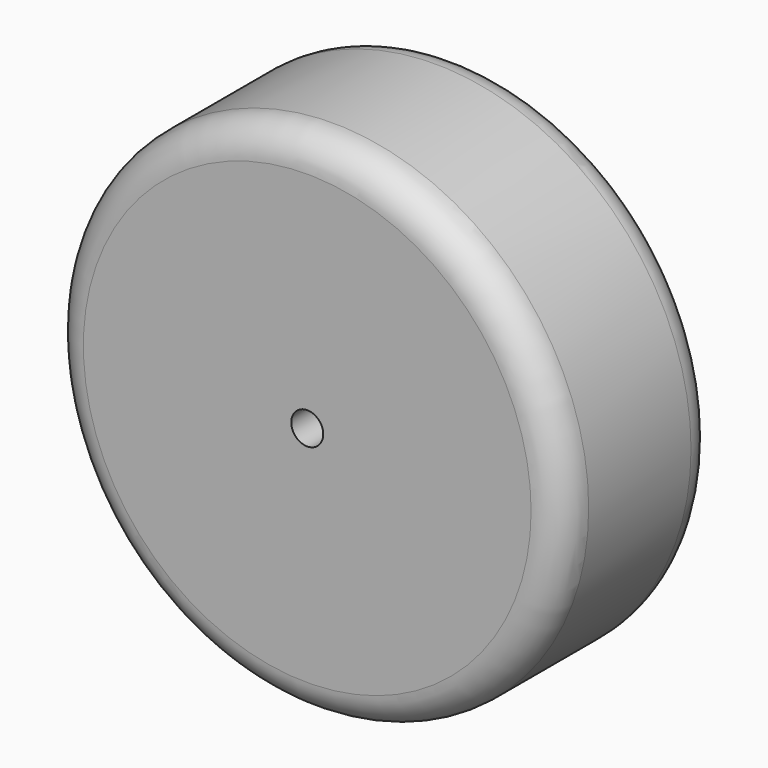
from build123d import *

# Parameters (mm, degrees)
F0_R     = 40
F1_DEPTH = 30
F2_R     = 5
F3_R     = 30
F4_DEPTH = 18
F5_R     = 2.5
F6_DEPTH = 41.9


with BuildPart() as f1:
    # F0 (on Front) → F1 (new body)
    with BuildSketch(Plane.XZ):
        Circle(F0_R)
    extrude(amount=F1_DEPTH)

    # F2
    f2_edges = [f1.edges().sort_by_distance(p)[0] for p in [
        (40, -15, 0),
        (-40, 0, 0),
        (-40, -30, 0),
    ]]
    fillet(f2_edges, radius=F2_R)

    # F3 (on Front) → F4 (cut)
    with BuildSketch(Plane.XZ):
        Circle(F3_R)
    extrude(amount=F4_DEPTH, mode=Mode.SUBTRACT)

    # F5 (on Front) → F6 (cut)
    with BuildSketch(Plane.XZ):
        Circle(F5_R)
    extrude(amount=F6_DEPTH, mode=Mode.SUBTRACT)


solid = f1.part
